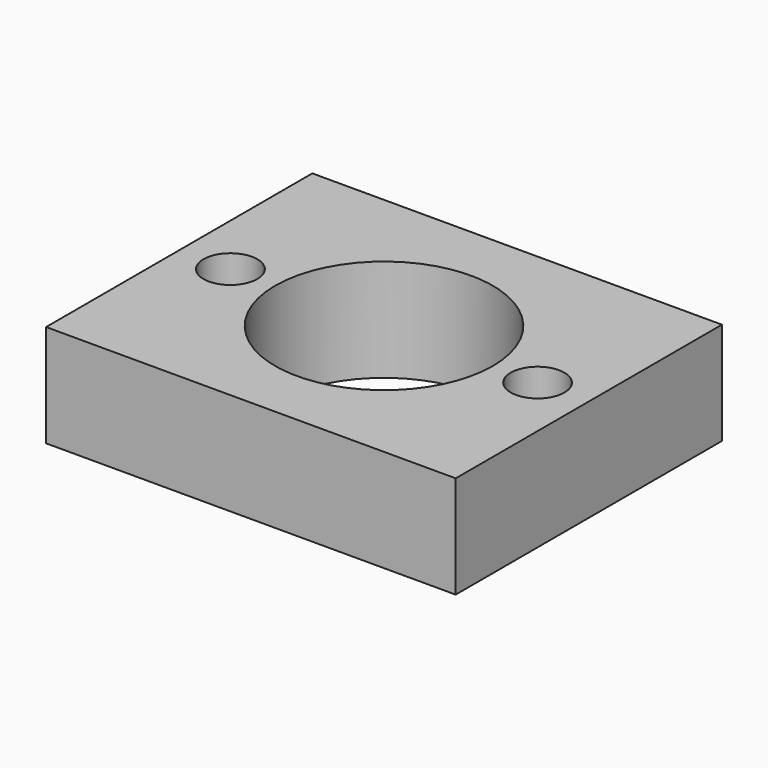
from build123d import *

# Parameters (mm, degrees)
SKETCH_W   = 32
SKETCH_H   = 26
SKETCH_R   = 8.5
SKETCH_R_2 = 2.1
PAD_DEPTH  = 8


with BuildPart() as part:
    # Sketch → Pad (new body)
    with BuildSketch(Plane.XY):
        Rectangle(SKETCH_W, SKETCH_H)
        Circle(SKETCH_R, mode=Mode.SUBTRACT)
        with Locations((-12, 0)):
            Circle(SKETCH_R_2, mode=Mode.SUBTRACT)
        with Locations((12, 0)):
            Circle(SKETCH_R_2, mode=Mode.SUBTRACT)
    extrude(amount=PAD_DEPTH)


solid = part.part
